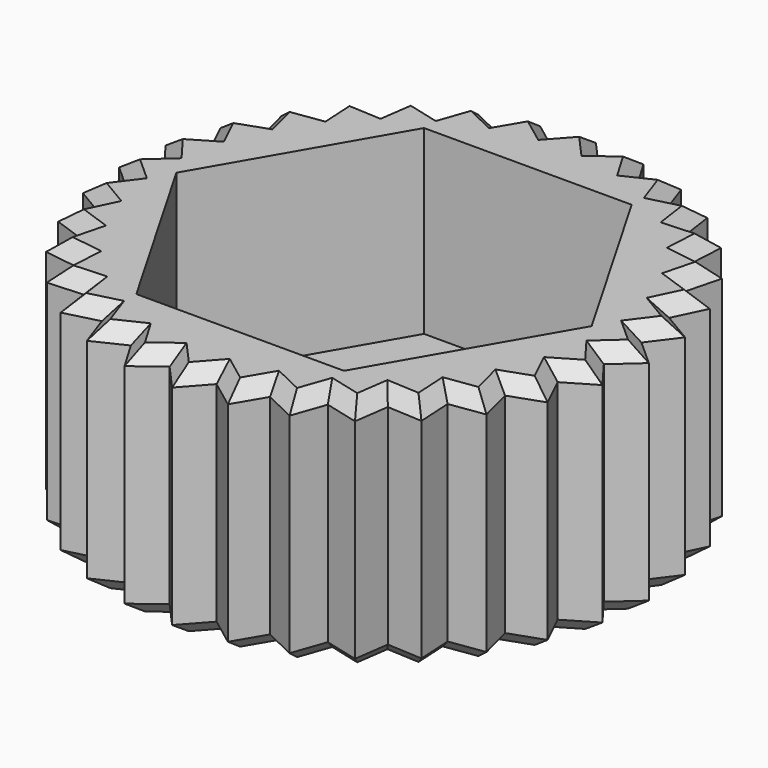
from build123d import *

# Parameters (mm, degrees)
F1_DEPTH = 2
F2_DEPTH = 8.5
F3_SIZE  = 0.5
F4_SIZE  = 0.5
F5_D     = 8
F5_DEPTH = 8


with BuildPart() as f1:
    # F0 (on Top) → F1 (new body)
    with BuildSketch(Plane.XY):
        with BuildLine():
            Line((-3.723909, -6.45), (-7.447818, 0))
            Line((-7.447818, 0), (-3.723909, 6.45))
            Line((-3.723909, 6.45), (0, 6.45))
            Line((0, 6.45), (0, 8.600635))
            ThreePointArc((0, 8.600635), (-0.421638, 8.590294), (-0.842263, 8.559294))
            ThreePointArc((-0.842263, 8.559294), (-1.677165, 8.435523), (-2.495914, 8.230513))
            ThreePointArc((-2.495914, 8.230513), (-3.290627, 7.946238), (-4.053649, 7.585437))
            ThreePointArc((-4.053649, 7.585437), (-4.777633, 7.151584), (-5.455605, 6.648857))
            ThreePointArc((-5.455605, 6.648857), (-6.081037, 6.082098), (-6.647905, 5.456765))
            ThreePointArc((-6.647905, 5.456765), (-7.15075, 4.778881), (-7.584729, 4.054973))
            ThreePointArc((-7.584729, 4.054973), (-7.945664, 3.292014), (-8.230077, 2.497351))
            ThreePointArc((-8.230077, 2.497351), (-8.43523, 1.678637), (-8.559147, 0.843757))
            ThreePointArc((-8.559147, 0.843757), (-8.600635, 0), (-8.559147, -0.843757))
            ThreePointArc((-8.559147, -0.843757), (-8.43523, -1.678637), (-8.230077, -2.497351))
            ThreePointArc((-8.230077, -2.497351), (-7.945664, -3.292014), (-7.584729, -4.054973))
            ThreePointArc((-7.584729, -4.054973), (-7.15075, -4.778881), (-6.647905, -5.456765))
            ThreePointArc((-6.647905, -5.456765), (-6.081037, -6.082098), (-5.455605, -6.648857))
            ThreePointArc((-5.455605, -6.648857), (-4.777633, -7.151584), (-4.053649, -7.585437))
            ThreePointArc((-4.053649, -7.585437), (-3.290627, -7.946238), (-2.495914, -8.230513))
            ThreePointArc((-2.495914, -8.230513), (-1.677165, -8.435523), (-0.842263, -8.559294))
            ThreePointArc((-0.842263, -8.559294), (-0.421638, -8.590294), (0, -8.600635))
            Line((0, -8.600635), (0, -6.45))
            Line((0, -6.45), (-3.723909, -6.45))
        make_face()
        with BuildLine():
            Line((0, 8.600635), (0, 6.45))
            Line((0, 6.45), (3.723909, 6.45))
            Line((3.723909, 6.45), (7.447818, 0))
            Line((7.447818, 0), (3.723909, -6.45))
            Line((3.723909, -6.45), (0, -6.45))
            Line((0, -6.45), (0, -8.600635))
            ThreePointArc((0, -8.600635), (0.421638, -8.590294), (0.842263, -8.559294))
            ThreePointArc((0.842263, -8.559294), (1.677165, -8.435523), (2.495914, -8.230513))
            ThreePointArc((2.495914, -8.230513), (3.290627, -7.946238), (4.053649, -7.585437))
            ThreePointArc((4.053649, -7.585437), (4.777633, -7.151584), (5.455605, -6.648857))
            ThreePointArc((5.455605, -6.648857), (6.081037, -6.082098), (6.647905, -5.456765))
            ThreePointArc((6.647905, -5.456765), (7.15075, -4.778881), (7.584729, -4.054973))
            ThreePointArc((7.584729, -4.054973), (7.945664, -3.292014), (8.230077, -2.497351))
            ThreePointArc((8.230077, -2.497351), (8.43523, -1.678637), (8.559147, -0.843757))
            ThreePointArc((8.559147, -0.843757), (8.590257, -0.422388), (8.600635, 0))
            ThreePointArc((8.600635, 0), (8.590257, 0.422388), (8.559147, 0.843757))
            ThreePointArc((8.559147, 0.843757), (8.43523, 1.678637), (8.230077, 2.497351))
            ThreePointArc((8.230077, 2.497351), (7.945664, 3.292014), (7.584729, 4.054973))
            ThreePointArc((7.584729, 4.054973), (7.15075, 4.778881), (6.647905, 5.456765))
            ThreePointArc((6.647905, 5.456765), (6.081037, 6.082098), (5.455605, 6.648857))
            ThreePointArc((5.455605, 6.648857), (4.777633, 7.151584), (4.053649, 7.585437))
            ThreePointArc((4.053649, 7.585437), (3.290627, 7.946238), (2.495914, 8.230513))
            ThreePointArc((2.495914, 8.230513), (1.677165, 8.435523), (0.842263, 8.559294))
            ThreePointArc((0.842263, 8.559294), (0.421638, 8.590294), (0, 8.600635))
        make_face()
        Polygon((-3.723909, 6.45), (-7.447818, 0), (-3.723909, -6.45), (0, -6.45), (0, 6.45), align=None)
        Polygon((3.723909, 6.45), (0, 6.45), (0, -6.45), (3.723909, -6.45), (7.447818, 0), align=None)
        with BuildLine():
            ThreePointArc((-2.495914, 8.230513), (-1.677165, 8.435523), (-0.842263, 8.559294))
            Line((-0.842263, 8.559294), (-1.853358, 9.31746))
            Line((-1.853358, 9.31746), (-2.495914, 8.230513))
        make_face()
        with BuildLine():
            ThreePointArc((-4.053649, 7.585437), (-3.290627, 7.946238), (-2.495914, 8.230513))
            Line((-2.495914, 8.230513), (-3.635493, 8.776856))
            Line((-3.635493, 8.776856), (-4.053649, 7.585437))
        make_face()
        with BuildLine():
            Line((0, 9.5), (0, 8.600635))
            ThreePointArc((0, 8.600635), (0.421638, 8.590294), (0.842263, 8.559294))
            Line((0.842263, 8.559294), (0, 9.5))
        make_face()
        with BuildLine():
            Line((8.776856, 3.635493), (7.584729, 4.054973))
            ThreePointArc((7.584729, 4.054973), (7.945664, 3.292014), (8.230077, 2.497351))
            Line((8.230077, 2.497351), (8.776856, 3.635493))
        make_face()
        with BuildLine():
            Line((5.277917, 7.898961), (4.053649, 7.585437))
            ThreePointArc((4.053649, 7.585437), (4.777633, 7.151584), (5.455605, 6.648857))
            Line((5.455605, 6.648857), (5.277917, 7.898961))
        make_face()
        with BuildLine():
            ThreePointArc((7.584729, -4.054973), (7.15075, -4.778881), (6.647905, -5.456765))
            Line((6.647905, -5.456765), (7.898961, -5.277917))
            Line((7.898961, -5.277917), (7.584729, -4.054973))
        make_face()
        with BuildLine():
            ThreePointArc((-0.842263, 8.559294), (-0.421638, 8.590294), (0, 8.600635))
            Line((0, 8.600635), (0, 9.5))
            Line((0, 9.5), (-0.842263, 8.559294))
        make_face()
        with BuildLine():
            ThreePointArc((0.842263, -8.559294), (0.421638, -8.590294), (0, -8.600635))
            Line((0, -8.600635), (0, -9.5))
            Line((0, -9.5), (0.842263, -8.559294))
        make_face()
        with BuildLine():
            Line((-5.277917, -7.898961), (-4.053649, -7.585437))
            ThreePointArc((-4.053649, -7.585437), (-4.777633, -7.151584), (-5.455605, -6.648857))
            Line((-5.455605, -6.648857), (-5.277917, -7.898961))
        make_face()
        with BuildLine():
            ThreePointArc((-5.455605, 6.648857), (-4.777633, 7.151584), (-4.053649, 7.585437))
            Line((-4.053649, 7.585437), (-5.277917, 7.898961))
            Line((-5.277917, 7.898961), (-5.455605, 6.648857))
        make_face()
        with BuildLine():
            ThreePointArc((4.053649, -7.585437), (3.290627, -7.946238), (2.495914, -8.230513))
            Line((2.495914, -8.230513), (3.635493, -8.776856))
            Line((3.635493, -8.776856), (4.053649, -7.585437))
        make_face()
        with BuildLine():
            ThreePointArc((-7.584729, 4.054973), (-7.15075, 4.778881), (-6.647905, 5.456765))
            Line((-6.647905, 5.456765), (-7.898961, 5.277917))
            Line((-7.898961, 5.277917), (-7.584729, 4.054973))
        make_face()
        with BuildLine():
            ThreePointArc((-8.559147, 0.843757), (-8.43523, 1.678637), (-8.230077, 2.497351))
            Line((-8.230077, 2.497351), (-9.31746, 1.853358))
            Line((-9.31746, 1.853358), (-8.559147, 0.843757))
        make_face()
        with BuildLine():
            ThreePointArc((-8.230077, 2.497351), (-7.945664, 3.292014), (-7.584729, 4.054973))
            Line((-7.584729, 4.054973), (-8.776856, 3.635493))
            Line((-8.776856, 3.635493), (-8.230077, 2.497351))
        make_face()
        with BuildLine():
            Line((-9.31746, -1.853358), (-8.230077, -2.497351))
            ThreePointArc((-8.230077, -2.497351), (-8.43523, -1.678637), (-8.559147, -0.843757))
            Line((-8.559147, -0.843757), (-9.31746, -1.853358))
        make_face()
        with BuildLine():
            Line((1.853358, 9.31746), (0.842263, 8.559294))
            ThreePointArc((0.842263, 8.559294), (1.677165, 8.435523), (2.495914, 8.230513))
            Line((2.495914, 8.230513), (1.853358, 9.31746))
        make_face()
        with BuildLine():
            ThreePointArc((2.495914, -8.230513), (1.677165, -8.435523), (0.842263, -8.559294))
            Line((0.842263, -8.559294), (1.853358, -9.31746))
            Line((1.853358, -9.31746), (2.495914, -8.230513))
        make_face()
        with BuildLine():
            ThreePointArc((-8.559147, -0.843757), (-8.600635, 0), (-8.559147, 0.843757))
            Line((-8.559147, 0.843757), (-9.5, 0))
            Line((-9.5, 0), (-8.559147, -0.843757))
        make_face()
        with BuildLine():
            Line((3.635493, 8.776856), (2.495914, 8.230513))
            ThreePointArc((2.495914, 8.230513), (3.290627, 7.946238), (4.053649, 7.585437))
            Line((4.053649, 7.585437), (3.635493, 8.776856))
        make_face()
        with BuildLine():
            Line((-7.898961, -5.277917), (-6.647905, -5.456765))
            ThreePointArc((-6.647905, -5.456765), (-7.15075, -4.778881), (-7.584729, -4.054973))
            Line((-7.584729, -4.054973), (-7.898961, -5.277917))
        make_face()
        with BuildLine():
            ThreePointArc((5.455605, -6.648857), (4.777633, -7.151584), (4.053649, -7.585437))
            Line((4.053649, -7.585437), (5.277917, -7.898961))
            Line((5.277917, -7.898961), (5.455605, -6.648857))
        make_face()
        with BuildLine():
            Line((9.5, 0), (8.559147, 0.843757))
            ThreePointArc((8.559147, 0.843757), (8.590257, 0.422388), (8.600635, 0))
            ThreePointArc((8.600635, 0), (8.590257, -0.422388), (8.559147, -0.843757))
            Line((8.559147, -0.843757), (9.5, 0))
        make_face()
        with BuildLine():
            Line((9.31746, 1.853358), (8.230077, 2.497351))
            ThreePointArc((8.230077, 2.497351), (8.43523, 1.678637), (8.559147, 0.843757))
            Line((8.559147, 0.843757), (9.31746, 1.853358))
        make_face()
        with BuildLine():
            Line((6.717514, 6.717514), (5.455605, 6.648857))
            ThreePointArc((5.455605, 6.648857), (6.081037, 6.082098), (6.647905, 5.456765))
            Line((6.647905, 5.456765), (6.717514, 6.717514))
        make_face()
        with BuildLine():
            ThreePointArc((8.559147, -0.843757), (8.43523, -1.678637), (8.230077, -2.497351))
            Line((8.230077, -2.497351), (9.31746, -1.853358))
            Line((9.31746, -1.853358), (8.559147, -0.843757))
        make_face()
        with BuildLine():
            Line((-6.717514, -6.717514), (-5.455605, -6.648857))
            ThreePointArc((-5.455605, -6.648857), (-6.081037, -6.082098), (-6.647905, -5.456765))
            Line((-6.647905, -5.456765), (-6.717514, -6.717514))
        make_face()
        with BuildLine():
            ThreePointArc((8.230077, -2.497351), (7.945664, -3.292014), (7.584729, -4.054973))
            Line((7.584729, -4.054973), (8.776856, -3.635493))
            Line((8.776856, -3.635493), (8.230077, -2.497351))
        make_face()
        with BuildLine():
            Line((0, -9.5), (0, -8.600635))
            ThreePointArc((0, -8.600635), (-0.421638, -8.590294), (-0.842263, -8.559294))
            Line((-0.842263, -8.559294), (0, -9.5))
        make_face()
        with BuildLine():
            Line((-8.776856, -3.635493), (-7.584729, -4.054973))
            ThreePointArc((-7.584729, -4.054973), (-7.945664, -3.292014), (-8.230077, -2.497351))
            Line((-8.230077, -2.497351), (-8.776856, -3.635493))
        make_face()
        with BuildLine():
            ThreePointArc((-6.647905, 5.456765), (-6.081037, 6.082098), (-5.455605, 6.648857))
            Line((-5.455605, 6.648857), (-6.717514, 6.717514))
            Line((-6.717514, 6.717514), (-6.647905, 5.456765))
        make_face()
        with BuildLine():
            Line((-3.635493, -8.776856), (-2.495914, -8.230513))
            ThreePointArc((-2.495914, -8.230513), (-3.290627, -7.946238), (-4.053649, -7.585437))
            Line((-4.053649, -7.585437), (-3.635493, -8.776856))
        make_face()
        with BuildLine():
            Line((7.898961, 5.277917), (6.647905, 5.456765))
            ThreePointArc((6.647905, 5.456765), (7.15075, 4.778881), (7.584729, 4.054973))
            Line((7.584729, 4.054973), (7.898961, 5.277917))
        make_face()
        with BuildLine():
            ThreePointArc((6.647905, -5.456765), (6.081037, -6.082098), (5.455605, -6.648857))
            Line((5.455605, -6.648857), (6.717514, -6.717514))
            Line((6.717514, -6.717514), (6.647905, -5.456765))
        make_face()
        with BuildLine():
            Line((-1.853358, -9.31746), (-0.842263, -8.559294))
            ThreePointArc((-0.842263, -8.559294), (-1.677165, -8.435523), (-2.495914, -8.230513))
            Line((-2.495914, -8.230513), (-1.853358, -9.31746))
        make_face()
    extrude(amount=F1_DEPTH)

    # F0 (on Top) → F2 (join)
    with BuildSketch(Plane.XY):
        with BuildLine():
            Line((0, 8.600635), (0, 6.45))
            Line((0, 6.45), (3.723909, 6.45))
            Line((3.723909, 6.45), (7.447818, 0))
            Line((7.447818, 0), (3.723909, -6.45))
            Line((3.723909, -6.45), (0, -6.45))
            Line((0, -6.45), (0, -8.600635))
            ThreePointArc((0, -8.600635), (0.421638, -8.590294), (0.842263, -8.559294))
            ThreePointArc((0.842263, -8.559294), (1.677165, -8.435523), (2.495914, -8.230513))
            ThreePointArc((2.495914, -8.230513), (3.290627, -7.946238), (4.053649, -7.585437))
            ThreePointArc((4.053649, -7.585437), (4.777633, -7.151584), (5.455605, -6.648857))
            ThreePointArc((5.455605, -6.648857), (6.081037, -6.082098), (6.647905, -5.456765))
            ThreePointArc((6.647905, -5.456765), (7.15075, -4.778881), (7.584729, -4.054973))
            ThreePointArc((7.584729, -4.054973), (7.945664, -3.292014), (8.230077, -2.497351))
            ThreePointArc((8.230077, -2.497351), (8.43523, -1.678637), (8.559147, -0.843757))
            ThreePointArc((8.559147, -0.843757), (8.590257, -0.422388), (8.600635, 0))
            ThreePointArc((8.600635, 0), (8.590257, 0.422388), (8.559147, 0.843757))
            ThreePointArc((8.559147, 0.843757), (8.43523, 1.678637), (8.230077, 2.497351))
            ThreePointArc((8.230077, 2.497351), (7.945664, 3.292014), (7.584729, 4.054973))
            ThreePointArc((7.584729, 4.054973), (7.15075, 4.778881), (6.647905, 5.456765))
            ThreePointArc((6.647905, 5.456765), (6.081037, 6.082098), (5.455605, 6.648857))
            ThreePointArc((5.455605, 6.648857), (4.777633, 7.151584), (4.053649, 7.585437))
            ThreePointArc((4.053649, 7.585437), (3.290627, 7.946238), (2.495914, 8.230513))
            ThreePointArc((2.495914, 8.230513), (1.677165, 8.435523), (0.842263, 8.559294))
            ThreePointArc((0.842263, 8.559294), (0.421638, 8.590294), (0, 8.600635))
        make_face()
        with BuildLine():
            Line((-3.723909, -6.45), (-7.447818, 0))
            Line((-7.447818, 0), (-3.723909, 6.45))
            Line((-3.723909, 6.45), (0, 6.45))
            Line((0, 6.45), (0, 8.600635))
            ThreePointArc((0, 8.600635), (-0.421638, 8.590294), (-0.842263, 8.559294))
            ThreePointArc((-0.842263, 8.559294), (-1.677165, 8.435523), (-2.495914, 8.230513))
            ThreePointArc((-2.495914, 8.230513), (-3.290627, 7.946238), (-4.053649, 7.585437))
            ThreePointArc((-4.053649, 7.585437), (-4.777633, 7.151584), (-5.455605, 6.648857))
            ThreePointArc((-5.455605, 6.648857), (-6.081037, 6.082098), (-6.647905, 5.456765))
            ThreePointArc((-6.647905, 5.456765), (-7.15075, 4.778881), (-7.584729, 4.054973))
            ThreePointArc((-7.584729, 4.054973), (-7.945664, 3.292014), (-8.230077, 2.497351))
            ThreePointArc((-8.230077, 2.497351), (-8.43523, 1.678637), (-8.559147, 0.843757))
            ThreePointArc((-8.559147, 0.843757), (-8.600635, 0), (-8.559147, -0.843757))
            ThreePointArc((-8.559147, -0.843757), (-8.43523, -1.678637), (-8.230077, -2.497351))
            ThreePointArc((-8.230077, -2.497351), (-7.945664, -3.292014), (-7.584729, -4.054973))
            ThreePointArc((-7.584729, -4.054973), (-7.15075, -4.778881), (-6.647905, -5.456765))
            ThreePointArc((-6.647905, -5.456765), (-6.081037, -6.082098), (-5.455605, -6.648857))
            ThreePointArc((-5.455605, -6.648857), (-4.777633, -7.151584), (-4.053649, -7.585437))
            ThreePointArc((-4.053649, -7.585437), (-3.290627, -7.946238), (-2.495914, -8.230513))
            ThreePointArc((-2.495914, -8.230513), (-1.677165, -8.435523), (-0.842263, -8.559294))
            ThreePointArc((-0.842263, -8.559294), (-0.421638, -8.590294), (0, -8.600635))
            Line((0, -8.600635), (0, -6.45))
            Line((0, -6.45), (-3.723909, -6.45))
        make_face()
        with BuildLine():
            ThreePointArc((5.455605, -6.648857), (4.777633, -7.151584), (4.053649, -7.585437))
            Line((4.053649, -7.585437), (5.277917, -7.898961))
            Line((5.277917, -7.898961), (5.455605, -6.648857))
        make_face()
        with BuildLine():
            ThreePointArc((6.647905, -5.456765), (6.081037, -6.082098), (5.455605, -6.648857))
            Line((5.455605, -6.648857), (6.717514, -6.717514))
            Line((6.717514, -6.717514), (6.647905, -5.456765))
        make_face()
        with BuildLine():
            ThreePointArc((7.584729, -4.054973), (7.15075, -4.778881), (6.647905, -5.456765))
            Line((6.647905, -5.456765), (7.898961, -5.277917))
            Line((7.898961, -5.277917), (7.584729, -4.054973))
        make_face()
        with BuildLine():
            ThreePointArc((8.230077, -2.497351), (7.945664, -3.292014), (7.584729, -4.054973))
            Line((7.584729, -4.054973), (8.776856, -3.635493))
            Line((8.776856, -3.635493), (8.230077, -2.497351))
        make_face()
        with BuildLine():
            ThreePointArc((8.559147, -0.843757), (8.43523, -1.678637), (8.230077, -2.497351))
            Line((8.230077, -2.497351), (9.31746, -1.853358))
            Line((9.31746, -1.853358), (8.559147, -0.843757))
        make_face()
        with BuildLine():
            Line((9.5, 0), (8.559147, 0.843757))
            ThreePointArc((8.559147, 0.843757), (8.590257, 0.422388), (8.600635, 0))
            ThreePointArc((8.600635, 0), (8.590257, -0.422388), (8.559147, -0.843757))
            Line((8.559147, -0.843757), (9.5, 0))
        make_face()
        with BuildLine():
            Line((9.31746, 1.853358), (8.230077, 2.497351))
            ThreePointArc((8.230077, 2.497351), (8.43523, 1.678637), (8.559147, 0.843757))
            Line((8.559147, 0.843757), (9.31746, 1.853358))
        make_face()
        with BuildLine():
            Line((8.776856, 3.635493), (7.584729, 4.054973))
            ThreePointArc((7.584729, 4.054973), (7.945664, 3.292014), (8.230077, 2.497351))
            Line((8.230077, 2.497351), (8.776856, 3.635493))
        make_face()
        with BuildLine():
            Line((7.898961, 5.277917), (6.647905, 5.456765))
            ThreePointArc((6.647905, 5.456765), (7.15075, 4.778881), (7.584729, 4.054973))
            Line((7.584729, 4.054973), (7.898961, 5.277917))
        make_face()
        with BuildLine():
            Line((6.717514, 6.717514), (5.455605, 6.648857))
            ThreePointArc((5.455605, 6.648857), (6.081037, 6.082098), (6.647905, 5.456765))
            Line((6.647905, 5.456765), (6.717514, 6.717514))
        make_face()
        with BuildLine():
            Line((5.277917, 7.898961), (4.053649, 7.585437))
            ThreePointArc((4.053649, 7.585437), (4.777633, 7.151584), (5.455605, 6.648857))
            Line((5.455605, 6.648857), (5.277917, 7.898961))
        make_face()
        with BuildLine():
            Line((3.635493, 8.776856), (2.495914, 8.230513))
            ThreePointArc((2.495914, 8.230513), (3.290627, 7.946238), (4.053649, 7.585437))
            Line((4.053649, 7.585437), (3.635493, 8.776856))
        make_face()
        with BuildLine():
            ThreePointArc((4.053649, -7.585437), (3.290627, -7.946238), (2.495914, -8.230513))
            Line((2.495914, -8.230513), (3.635493, -8.776856))
            Line((3.635493, -8.776856), (4.053649, -7.585437))
        make_face()
        with BuildLine():
            ThreePointArc((2.495914, -8.230513), (1.677165, -8.435523), (0.842263, -8.559294))
            Line((0.842263, -8.559294), (1.853358, -9.31746))
            Line((1.853358, -9.31746), (2.495914, -8.230513))
        make_face()
        with BuildLine():
            ThreePointArc((0.842263, -8.559294), (0.421638, -8.590294), (0, -8.600635))
            Line((0, -8.600635), (0, -9.5))
            Line((0, -9.5), (0.842263, -8.559294))
        make_face()
        with BuildLine():
            Line((0, -9.5), (0, -8.600635))
            ThreePointArc((0, -8.600635), (-0.421638, -8.590294), (-0.842263, -8.559294))
            Line((-0.842263, -8.559294), (0, -9.5))
        make_face()
        with BuildLine():
            Line((-1.853358, -9.31746), (-0.842263, -8.559294))
            ThreePointArc((-0.842263, -8.559294), (-1.677165, -8.435523), (-2.495914, -8.230513))
            Line((-2.495914, -8.230513), (-1.853358, -9.31746))
        make_face()
        with BuildLine():
            Line((-3.635493, -8.776856), (-2.495914, -8.230513))
            ThreePointArc((-2.495914, -8.230513), (-3.290627, -7.946238), (-4.053649, -7.585437))
            Line((-4.053649, -7.585437), (-3.635493, -8.776856))
        make_face()
        with BuildLine():
            Line((-5.277917, -7.898961), (-4.053649, -7.585437))
            ThreePointArc((-4.053649, -7.585437), (-4.777633, -7.151584), (-5.455605, -6.648857))
            Line((-5.455605, -6.648857), (-5.277917, -7.898961))
        make_face()
        with BuildLine():
            ThreePointArc((-2.495914, 8.230513), (-1.677165, 8.435523), (-0.842263, 8.559294))
            Line((-0.842263, 8.559294), (-1.853358, 9.31746))
            Line((-1.853358, 9.31746), (-2.495914, 8.230513))
        make_face()
        with BuildLine():
            Line((1.853358, 9.31746), (0.842263, 8.559294))
            ThreePointArc((0.842263, 8.559294), (1.677165, 8.435523), (2.495914, 8.230513))
            Line((2.495914, 8.230513), (1.853358, 9.31746))
        make_face()
        with BuildLine():
            Line((0, 9.5), (0, 8.600635))
            ThreePointArc((0, 8.600635), (0.421638, 8.590294), (0.842263, 8.559294))
            Line((0.842263, 8.559294), (0, 9.5))
        make_face()
        with BuildLine():
            ThreePointArc((-0.842263, 8.559294), (-0.421638, 8.590294), (0, 8.600635))
            Line((0, 8.600635), (0, 9.5))
            Line((0, 9.5), (-0.842263, 8.559294))
        make_face()
        with BuildLine():
            Line((-6.717514, -6.717514), (-5.455605, -6.648857))
            ThreePointArc((-5.455605, -6.648857), (-6.081037, -6.082098), (-6.647905, -5.456765))
            Line((-6.647905, -5.456765), (-6.717514, -6.717514))
        make_face()
        with BuildLine():
            Line((-7.898961, -5.277917), (-6.647905, -5.456765))
            ThreePointArc((-6.647905, -5.456765), (-7.15075, -4.778881), (-7.584729, -4.054973))
            Line((-7.584729, -4.054973), (-7.898961, -5.277917))
        make_face()
        with BuildLine():
            Line((-8.776856, -3.635493), (-7.584729, -4.054973))
            ThreePointArc((-7.584729, -4.054973), (-7.945664, -3.292014), (-8.230077, -2.497351))
            Line((-8.230077, -2.497351), (-8.776856, -3.635493))
        make_face()
        with BuildLine():
            Line((-9.31746, -1.853358), (-8.230077, -2.497351))
            ThreePointArc((-8.230077, -2.497351), (-8.43523, -1.678637), (-8.559147, -0.843757))
            Line((-8.559147, -0.843757), (-9.31746, -1.853358))
        make_face()
        with BuildLine():
            ThreePointArc((-8.559147, -0.843757), (-8.600635, 0), (-8.559147, 0.843757))
            Line((-8.559147, 0.843757), (-9.5, 0))
            Line((-9.5, 0), (-8.559147, -0.843757))
        make_face()
        with BuildLine():
            ThreePointArc((-8.559147, 0.843757), (-8.43523, 1.678637), (-8.230077, 2.497351))
            Line((-8.230077, 2.497351), (-9.31746, 1.853358))
            Line((-9.31746, 1.853358), (-8.559147, 0.843757))
        make_face()
        with BuildLine():
            ThreePointArc((-8.230077, 2.497351), (-7.945664, 3.292014), (-7.584729, 4.054973))
            Line((-7.584729, 4.054973), (-8.776856, 3.635493))
            Line((-8.776856, 3.635493), (-8.230077, 2.497351))
        make_face()
        with BuildLine():
            ThreePointArc((-7.584729, 4.054973), (-7.15075, 4.778881), (-6.647905, 5.456765))
            Line((-6.647905, 5.456765), (-7.898961, 5.277917))
            Line((-7.898961, 5.277917), (-7.584729, 4.054973))
        make_face()
        with BuildLine():
            ThreePointArc((-6.647905, 5.456765), (-6.081037, 6.082098), (-5.455605, 6.648857))
            Line((-5.455605, 6.648857), (-6.717514, 6.717514))
            Line((-6.717514, 6.717514), (-6.647905, 5.456765))
        make_face()
        with BuildLine():
            ThreePointArc((-5.455605, 6.648857), (-4.777633, 7.151584), (-4.053649, 7.585437))
            Line((-4.053649, 7.585437), (-5.277917, 7.898961))
            Line((-5.277917, 7.898961), (-5.455605, 6.648857))
        make_face()
        with BuildLine():
            ThreePointArc((-4.053649, 7.585437), (-3.290627, 7.946238), (-2.495914, 8.230513))
            Line((-2.495914, 8.230513), (-3.635493, 8.776856))
            Line((-3.635493, 8.776856), (-4.053649, 7.585437))
        make_face()
    extrude(amount=F2_DEPTH)

    # F3
    f3_edges = [f1.edges().sort_by_distance(p)[0] for p in [
        (-1.34781, 8.938377, 0),
        (-2.174636, 8.773986, 0),
        (-3.065704, 8.503684, 0),
        (-3.844571, 8.181146, 0),
        (-4.665783, 7.742199, 0),
        (-5.366761, 7.273909, 0),
        (-6.08656, 6.683186, 0),
        (-6.68271, 6.08714, 0),
        (-7.273433, 5.367341, 0),
        (-7.741845, 4.666445, 0),
        (-8.180792, 3.845233, 0),
        (-8.503466, 3.066422, 0),
        (-8.773769, 2.175354, 0),
        (-8.938304, 1.348557, 0),
        (-9.029574, 0.421878, 0),
        (-9.029574, -0.421878, 0),
        (-8.938304, -1.348557, 0),
        (-8.773769, -2.175354, 0),
        (-8.503466, -3.066422, 0),
        (-8.180792, -3.845233, 0),
        (-7.741845, -4.666445, 0),
        (-7.273433, -5.367341, 0),
        (-6.68271, -6.08714, 0),
        (-6.08656, -6.683186, 0),
        (-5.366761, -7.273909, 0),
        (-4.665783, -7.742199, 0),
        (-3.844571, -8.181146, 0),
        (-3.065704, -8.503684, 0),
        (-2.174636, -8.773986, 0),
        (-1.34781, -8.938377, 0),
        (-0.421131, -9.029647, 0),
        (0.421131, -9.029647, 0),
        (1.34781, -8.938377, 0),
        (2.174636, -8.773986, 0),
        (3.065704, -8.503684, 0),
        (3.844571, -8.181146, 0),
        (4.665783, -7.742199, 0),
        (5.366761, -7.273909, 0),
        (6.08656, -6.683186, 0),
        (6.68271, -6.08714, 0),
        (7.273433, -5.367341, 0),
        (7.741845, -4.666445, 0),
        (8.180792, -3.845233, 0),
        (8.503466, -3.066422, 0),
        (8.773769, -2.175354, 0),
        (8.938304, -1.348557, 0),
        (9.029574, -0.421878, 0),
        (9.029574, 0.421878, 0),
        (8.938304, 1.348557, 0),
        (8.773769, 2.175354, 0),
        (8.503466, 3.066422, 0),
        (8.180792, 3.845233, 0),
        (7.741845, 4.666445, 0),
        (7.273433, 5.367341, 0),
        (6.68271, 6.08714, 0),
        (6.08656, 6.683186, 0),
        (5.366761, 7.273909, 0),
        (4.665783, 7.742199, 0),
        (3.844571, 8.181146, 0),
        (3.065704, 8.503684, 0),
        (2.174636, 8.773986, 0),
        (1.34781, 8.938377, 0),
        (0.421131, 9.029647, 0),
        (-0.421131, 9.029647, 0),
    ]]
    chamfer(f3_edges, length=F3_SIZE)

    # F4
    f4_edges = [f1.edges().sort_by_distance(p)[0] for p in [
        (-3.844571, -8.181146, 8.5),
        (-3.065704, -8.503684, 8.5),
        (-2.174636, -8.773986, 8.5),
        (-1.34781, -8.938377, 8.5),
        (-0.421131, -9.029647, 8.5),
        (0.421131, -9.029647, 8.5),
        (1.34781, -8.938377, 8.5),
        (2.174636, -8.773986, 8.5),
        (3.065704, -8.503684, 8.5),
        (3.844571, -8.181146, 8.5),
        (4.665783, -7.742199, 8.5),
        (5.366761, -7.273909, 8.5),
        (6.08656, -6.683186, 8.5),
        (6.68271, -6.08714, 8.5),
        (7.273433, -5.367341, 8.5),
        (7.741845, -4.666445, 8.5),
        (8.180792, -3.845233, 8.5),
        (8.503466, -3.066422, 8.5),
        (8.773769, -2.175354, 8.5),
        (8.938304, -1.348557, 8.5),
        (9.029574, -0.421878, 8.5),
        (9.029574, 0.421878, 8.5),
        (8.938304, 1.348557, 8.5),
        (8.773769, 2.175354, 8.5),
        (8.503466, 3.066422, 8.5),
        (8.180792, 3.845233, 8.5),
        (7.741845, 4.666445, 8.5),
        (7.273433, 5.367341, 8.5),
        (6.68271, 6.08714, 8.5),
        (6.08656, 6.683186, 8.5),
        (5.366761, 7.273909, 8.5),
        (4.665783, 7.742199, 8.5),
        (3.844571, 8.181146, 8.5),
        (3.065704, 8.503684, 8.5),
        (2.174636, 8.773986, 8.5),
        (1.34781, 8.938377, 8.5),
        (0.421131, 9.029647, 8.5),
        (-0.421131, 9.029647, 8.5),
        (-1.34781, 8.938377, 8.5),
        (-2.174636, 8.773986, 8.5),
        (-3.065704, 8.503684, 8.5),
        (-3.844571, 8.181146, 8.5),
        (-4.665783, 7.742199, 8.5),
        (-5.366761, 7.273909, 8.5),
        (-6.08656, 6.683186, 8.5),
        (-6.68271, 6.08714, 8.5),
        (-7.273433, 5.367341, 8.5),
        (-7.741845, 4.666445, 8.5),
        (-8.180792, 3.845233, 8.5),
        (-8.503466, 3.066422, 8.5),
        (-8.773769, 2.175354, 8.5),
        (-8.938304, 1.348557, 8.5),
        (-9.029574, 0.421878, 8.5),
        (-9.029574, -0.421878, 8.5),
        (-8.938304, -1.348557, 8.5),
        (-4.665783, -7.742199, 8.5),
        (-5.366761, -7.273909, 8.5),
        (-6.08656, -6.683186, 8.5),
        (-6.68271, -6.08714, 8.5),
        (-7.741845, -4.666445, 8.5),
        (-8.180792, -3.845233, 8.5),
        (-8.503466, -3.066422, 8.5),
        (-8.773769, -2.175354, 8.5),
        (-7.273433, -5.367341, 8.5),
    ]]
    chamfer(f4_edges, length=F4_SIZE)

    # F5
    with Locations(Plane(origin=(0, 0, 0), x_dir=(1, 0, 0), z_dir=(0, 0, -1))):
        with Locations((0, 0)):
            Hole(F5_D / 2, depth=F5_DEPTH)


solid = f1.part
